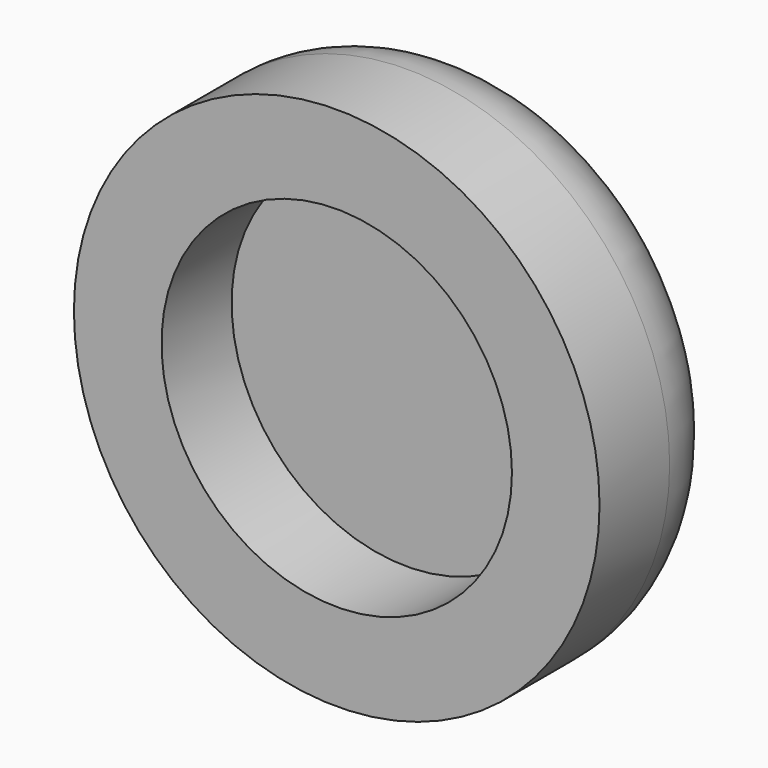
from build123d import *

# Parameters (mm, degrees)
F0_R     = 9.525
F0_R_2   = 6.35
F1_DEPTH = 6.35
F2_DEPTH = 3.175
F3_R     = 3.175


with BuildPart() as f1:
    # F0 (on Front) → F1 (new body)
    with BuildSketch(Plane.XZ):
        Circle(F0_R)
        Circle(F0_R_2, mode=Mode.SUBTRACT)
    extrude(amount=F1_DEPTH)

    # F0 (on Front) → F2 (join)
    with BuildSketch(Plane.XZ):
        Circle(F0_R_2)
    extrude(amount=F2_DEPTH)

    # F3
    f3_edges = [f1.edges().sort_by_distance(p)[0] for p in [
        (-9.525, 0, 0),
    ]]
    fillet(f3_edges, radius=F3_R)


solid = f1.part
